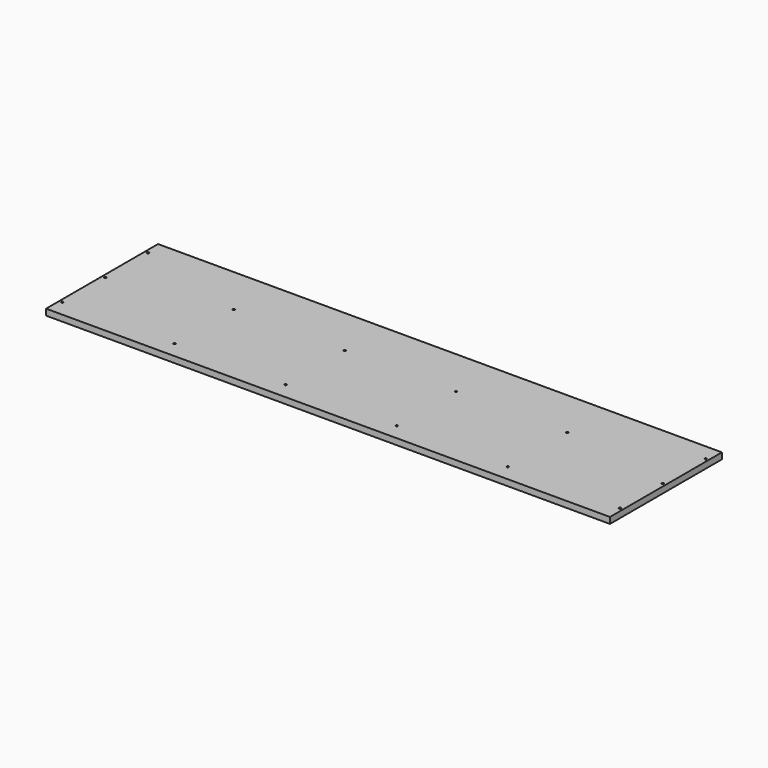
from build123d import *

# Parameters (mm, degrees)
F0_W     = 1739.9
F0_H     = 19.05
F1_DEPTH = 431.8
F2_R     = 3.175
F3_DEPTH = 9.525


with BuildPart() as f1:
    # F0 (on Front) → F1 (new body)
    with BuildSketch(Plane.XZ):
        with Locations((869.95, 9.525)):
            Rectangle(F0_W, F0_H)
    extrude(amount=-F1_DEPTH)

    # F2 (on face) → F3 (cut)
    with BuildSketch(Plane.XY.offset(19.05)):
        with Locations((9.525, 381)):
            Circle(F2_R)
        with Locations((9.525, 215.9)):
            Circle(F2_R)
        with Locations((9.525, 50.8)):
            Circle(F2_R)
        with Locations((1730.375, 381)):
            Circle(F2_R)
        with Locations((1730.375, 215.9)):
            Circle(F2_R)
        with Locations((1730.375, 50.8)):
            Circle(F2_R)
        with Locations((355.6, 50.8)):
            Circle(F2_R)
        with Locations((355.6, 279.4)):
            Circle(F2_R)
        with Locations((1041.4, 50.8)):
            Circle(F2_R)
        with Locations((1384.3, 279.4)):
            Circle(F2_R)
        with Locations((1041.4, 279.4)):
            Circle(F2_R)
        with Locations((698.5, 50.8)):
            Circle(F2_R)
        with Locations((698.5, 279.4)):
            Circle(F2_R)
        with Locations((1384.3, 50.8)):
            Circle(F2_R)
    extrude(amount=-F3_DEPTH, mode=Mode.SUBTRACT)


solid = f1.part
